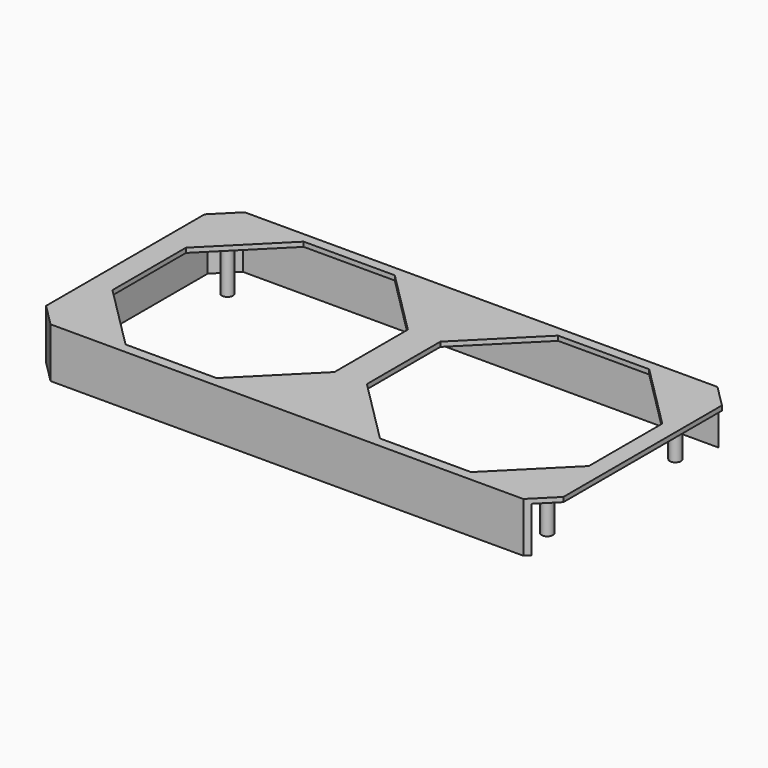
from build123d import *

# Parameters (mm, degrees)
PAD_DEPTH       = 20
POCKET_DEPTH    = 20
POCKET001_DEPTH = 18.15
SKETCH003_R     = 2.25
PAD001_DEPTH    = 18.05


with BuildPart() as part:
    # Sketch → Pad (new body)
    with BuildSketch(Plane.XY):
        Polygon((-8.910891, 97.1), (0, 88.189109), (0, 8.910891), (-8.910891, 0), (-198.089109, 0), (-207, 8.910891), (-207, 88.189109), (-198.089109, 97.1), align=None)
    extrude(amount=PAD_DEPTH)

    # Sketch001 (on Face10 of Pad) → Pocket (cut)
    with BuildSketch(Plane.XY.offset(20)):
        Polygon((-95.65, 66.925), (-95.65, 30.175), (-69.475, 4), (-33.025, 4), (-6.85, 30.175), (-6.85, 66.925), (-33.025, 93.1), (-69.475, 93.1), align=None)
        Polygon((-197.45, 66.925), (-197.45, 30.175), (-171.275, 4), (-134.825, 4), (-108.65, 30.175), (-108.65, 66.925), (-134.825, 93.1), (-171.275, 93.1), align=None)
    extrude(amount=-POCKET_DEPTH, mode=Mode.SUBTRACT)

    # Sketch002 (on Face4 of Pocket) → Pocket001 (cut)
    with BuildSketch(Plane(origin=(0, 0, 0), x_dir=(1, 0, 0), z_dir=(0, 0, -1))):
        Polygon((-197.323705, -1.85), (-205.15, -9.676295), (-205.15, -87.423705), (-197.323705, -95.25), (7.29, -95.25), (7.29, -1.85), align=None)
    extrude(amount=-POCKET001_DEPTH, mode=Mode.SUBTRACT)

    # Sketch003 (on Face32 of Pocket001) → Pad001 (join)
    with BuildSketch(Plane(origin=(0, 0, 18.15), x_dir=(1, 0, 0), z_dir=(0, 0, -1))):
        with Locations((-12.53, -16.49)):
            Circle(SKETCH003_R)
        with Locations((-191.771101, -16.492657)):
            Circle(SKETCH003_R)
        with Locations((-12.528899, -80.607343)):
            Circle(SKETCH003_R)
        with Locations((-191.771101, -80.607343)):
            Circle(SKETCH003_R)
    extrude(amount=PAD001_DEPTH)


solid = part.part
